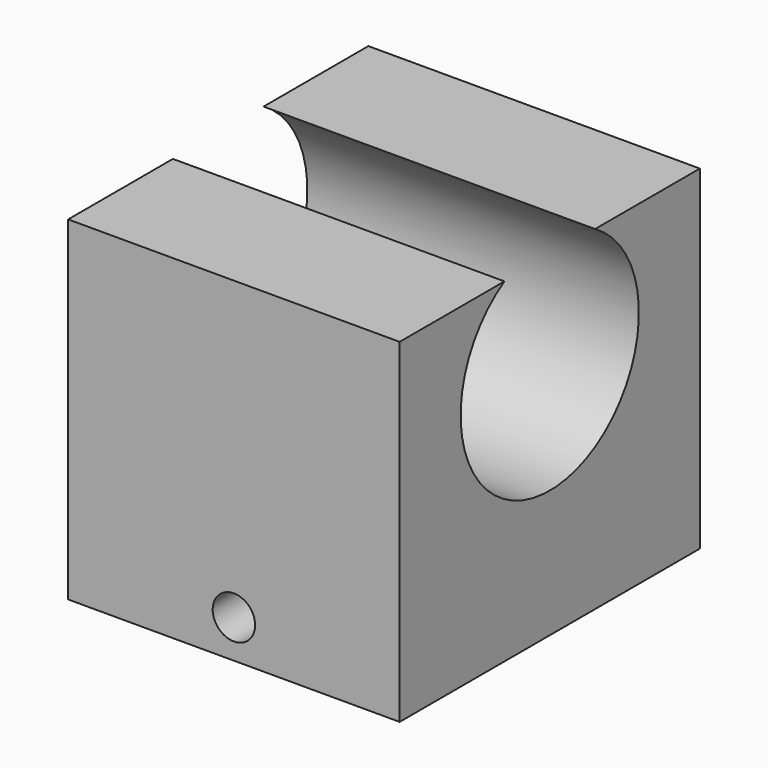
from build123d import *

# Parameters (mm, degrees)
F1_DEPTH = 25
F2_R     = 1.6
F3_DEPTH = 32


with BuildPart() as f1:
    # F0 (on Right) → F1 (new body)
    with BuildSketch(Plane.YZ):
        with BuildLine():
            ThreePointArc((4.861622, 17.075245), (0.592168, 1.441825), (-3.681383, 17.074125))
            Line((-3.681383, 17.074125), (-13.558886, 17.074125))
            Line((-13.558886, 17.074125), (-13.558383, -8.158872))
            Line((-13.558383, -8.158872), (14.738216, -8.158172))
            Line((14.738216, -8.158172), (14.739622, 17.075245))
            Line((14.739622, 17.075245), (4.861622, 17.075245))
        make_face()
    extrude(amount=F1_DEPTH)

    # F2 (on face) → F3 (cut)
    with BuildSketch(Plane(origin=(0, -13.558546, -0.00027), x_dir=(1, 0, 0), z_dir=(0, -1, -2e-05))):
        with Locations((12.5, -5.28356)):
            Circle(F2_R)
    extrude(amount=-F3_DEPTH, mode=Mode.SUBTRACT)


solid = f1.part
